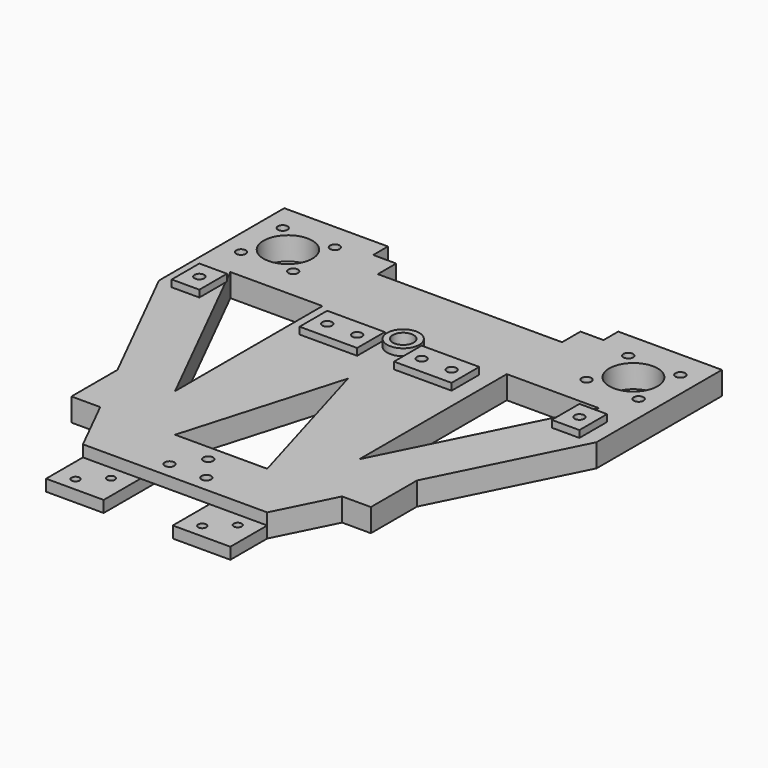
from build123d import *

# Parameters (mm, degrees)
F0_R      = 7
F0_R_2    = 4.5
F0_W      = 25
F0_H      = 20
F1_DEPTH  = 10
F2_W      = 25
F2_H      = 15
F2_W_2    = 12
F2_R      = 7
F2_R_2    = 4.5
F3_DEPTH  = 3
F4_W      = 30
F4_H      = 25
F5_DEPTH  = 5
F6_W      = 25
F6_H      = 20
F7_DEPTH  = 5
F8_R      = 1.75
F8_R_2    = 2.1
F9_DEPTH  = 25
F10_R     = 2.1
F11_DEPTH = 6
F12_W     = 20
F12_H     = 100
F12_H_2   = 104.976
F13_DEPTH = 25
F14_R     = 10.6
F14_R_2   = 2.1
F14_R_3   = 10.5
F15_DEPTH = 25
F16_W     = 45
F16_H     = 8
F17_DEPTH = 10
F18_R     = 2.1
F19_DEPTH = 6.85


with BuildPart() as f1:
    # F0 (on Top) → F1 (new body)
    with BuildSketch(Plane.XY):
        Polygon((-52.5, -98.8), (-40, -123.8), (-15, -123.8), (15, -123.8), (40, -123.8), (52.5, -98.8), (65, -98.8), (65, -73.8), (115, 26.2), (115, 46.2), (40, 46.2), (40, 36.2), (-40, 36.2), (-40, 46.2), (-115, 46.2), (-115, 26.2), (-65, -73.8), (-65, -98.8), align=None)
        Polygon((20, -98.8), (-20, -98.8), (0, -30), align=None, mode=Mode.SUBTRACT)
        Polygon((-80, 6.2), (-40, 6.2), (-40, -73.8), align=None, mode=Mode.SUBTRACT)
        with Locations((-75, 31.2)):
            Circle(F0_R, mode=Mode.SUBTRACT)
        Polygon((40, -73.8), (40, 6.2), (80, 6.2), align=None, mode=Mode.SUBTRACT)
        Circle(F0_R_2, mode=Mode.SUBTRACT)
        with Locations((75, 31.2)):
            Circle(F0_R, mode=Mode.SUBTRACT)
        with Locations((-27.5, -133.8)):
            Rectangle(F0_W, F0_H)
        with Locations((27.5, -133.8)):
            Rectangle(F0_W, F0_H)
    extrude(amount=F1_DEPTH)

    # F2 (on face) → F3 (join)
    with BuildSketch(Plane.XY.offset(10)):
        with Locations((-20.5, -7.5)):
            Rectangle(F2_W, F2_H)
        with Locations((20.5, -7.5)):
            Rectangle(F2_W, F2_H)
        with Locations((82.5, -7.5)):
            Rectangle(F2_W_2, F2_H)
        with Locations((-82.5, -7.5)):
            Rectangle(F2_W_2, F2_H)
        Circle(F2_R)
        Circle(F2_R_2, mode=Mode.SUBTRACT)
    extrude(amount=F3_DEPTH)

    # F4 (on face) → F5 (cut)
    with BuildSketch(Plane(origin=(0, 0, 0), x_dir=(1, 0, 0), z_dir=(0, 0, -1))):
        with Locations((0, 111.3)):
            Rectangle(F4_W, F4_H)
    extrude(amount=-F5_DEPTH, mode=Mode.SUBTRACT)

    # F6 (on face) → F7 (cut)
    with BuildSketch(Plane.XY.offset(10)):
        with Locations((-27.5, -133.8)):
            Rectangle(F6_W, F6_H)
        with Locations((27.5, -133.8)):
            Rectangle(F6_W, F6_H)
    extrude(amount=-F7_DEPTH, mode=Mode.SUBTRACT)

    # F8 (on face) → F9 (cut)
    with BuildSketch(Plane.XY.offset(10)):
        with Locations((-32, -137.8)):
            Circle(F8_R)
        with Locations((-23, -129.8)):
            Circle(F8_R)
        with Locations((23, -137.8)):
            Circle(F8_R)
        with Locations((32, -129.8)):
            Circle(F8_R)
        with Locations((-8, -116.8)):
            Circle(F8_R_2)
        with Locations((8, -116.8)):
            Circle(F8_R_2)
        with Locations((0, -105.8)):
            Circle(F8_R_2)
    extrude(amount=-F9_DEPTH, mode=Mode.SUBTRACT)

    # F10 (on face) → F11 (cut)
    with BuildSketch(Plane.XY.offset(13)):
        with Locations((-82.5, -7.5)):
            Circle(F10_R)
        with Locations((-27, -7.5)):
            Circle(F10_R)
        with Locations((27, -7.5)):
            Circle(F10_R)
        with Locations((82.5, -7.5)):
            Circle(F10_R)
        with Locations((-14, -7.5)):
            Circle(F10_R)
        with Locations((14, -7.5)):
            Circle(F10_R)
    extrude(amount=-F11_DEPTH, mode=Mode.SUBTRACT)

    # F12 (on face) → F13 (cut)
    with BuildSketch(Plane.XY.offset(10)):
        with Locations((-105, -3.8)):
            Rectangle(F12_W, F12_H)
        with Locations((105, -6.288)):
            Rectangle(F12_W, F12_H_2)
    extrude(amount=-F13_DEPTH, mode=Mode.SUBTRACT)

    # F14 (on face) → F15 (cut)
    with BuildSketch(Plane.XY.offset(10)):
        with Locations((-75, 31.2)):
            Circle(F14_R)
        with Locations((-63.686292, 42.513708)):
            Circle(F14_R_2)
        with Locations((-86.313708, 42.513708)):
            Circle(F14_R_2)
        with Locations((-86.313708, 19.886292)):
            Circle(F14_R_2)
        with Locations((-63.686292, 19.886292)):
            Circle(F14_R_2)
        with Locations((63.686292, 42.513708)):
            Circle(F14_R_2)
        with Locations((63.686292, 19.886292)):
            Circle(F14_R_2)
        with Locations((86.313708, 42.513708)):
            Circle(F14_R_2)
        with Locations((86.313708, 19.886292)):
            Circle(F14_R_2)
        with Locations((75, 31.2)):
            Circle(F14_R_3)
    extrude(amount=-F15_DEPTH, mode=Mode.SUBTRACT)

    # F16 (on face) → F17 (join)
    with BuildSketch(Plane.XY.offset(10)):
        with Locations((-72.5, 50.2)):
            Rectangle(F16_W, F16_H)
        with Locations((72.5, 50.2)):
            Rectangle(F16_W, F16_H)
    extrude(amount=-F17_DEPTH)

    # F18 (on face) → F19 (cut)
    with BuildSketch(Plane(origin=(0, 0, 0), x_dir=(1, 0, 0), z_dir=(0, 0, -1))):
        Polygon((4.116549, 6.5), (-4.116549, 6.5), (-7.19, 0), (-4.116549, -6.5), (4.116549, -6.5), (7.19, 0), align=None)
        with Locations((-20, 0)):
            Circle(F18_R)
        with Locations((20, 0)):
            Circle(F18_R)
    extrude(amount=-F19_DEPTH, mode=Mode.SUBTRACT)


solid = f1.part
